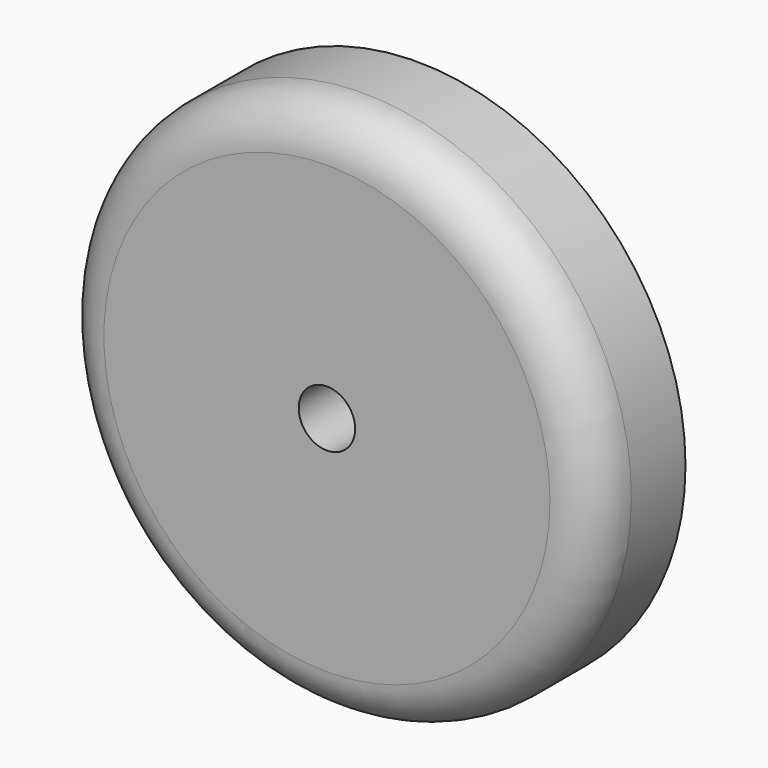
from build123d import *

# Parameters (mm, degrees)
F0_R     = 30.1625
F0_R_2   = 3.175
F1_DEPTH = 6.35
F2_R     = 5.08


with BuildPart() as f1:
    # F0 (on Front) → F1 (new body, symmetric)
    with BuildSketch(Plane.XZ):
        Circle(F0_R)
        Circle(F0_R_2, mode=Mode.SUBTRACT)
        Circle(F0_R)
        Circle(F0_R_2, mode=Mode.SUBTRACT)
    extrude(amount=F1_DEPTH, both=True)

    # F2
    f2_edges = [f1.edges().sort_by_distance(p)[0] for p in [
        (-30.1625, -6.35, 0),
    ]]
    fillet(f2_edges, radius=F2_R)


solid = f1.part
